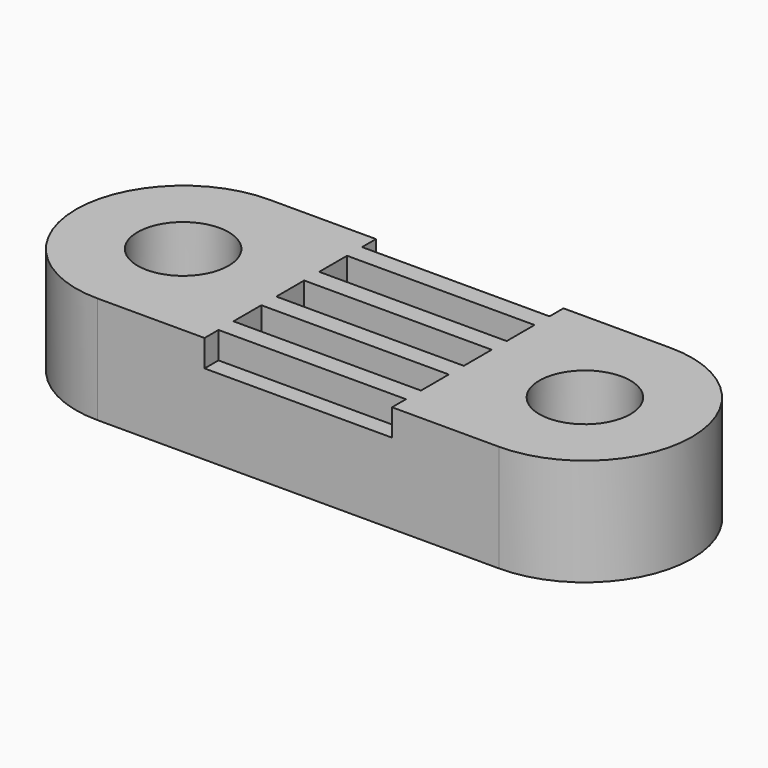
from build123d import *

# Parameters (mm, degrees)
SKETCH_R     = 1.7
PAD_DEPTH    = 4
SKETCH001_W  = 7
SKETCH001_H  = 1.3
POCKET_DEPTH = 1
CHAMFER_SIZE = 0.5


with BuildPart() as part:
    # Sketch → Pad (new body)
    with BuildSketch(Plane.XY):
        with BuildLine():
            ThreePointArc((-7.5, 4), (-11.5, 0), (-7.5, -4))
            Line((-7.5, -4), (7.5, -4))
            ThreePointArc((7.5, -4), (11.5, 0), (7.5, 4))
            Line((-7.5, 4), (7.5, 4))
        make_face()
        with Locations((-7.5, 0)):
            Circle(SKETCH_R, mode=Mode.SUBTRACT)
        with Locations((7.5, 0)):
            Circle(SKETCH_R, mode=Mode.SUBTRACT)
    extrude(amount=PAD_DEPTH)

    # Sketch001 → Pocket (cut)
    with BuildSketch(Plane.XY.offset(4)):
        with Locations((0, 2)):
            Rectangle(SKETCH001_W, SKETCH001_H)
        Rectangle(SKETCH001_W, SKETCH001_H)
        with Locations((0, -2)):
            Rectangle(SKETCH001_W, SKETCH001_H)
        with Locations((0, 4)):
            Rectangle(SKETCH001_W, SKETCH001_H)
        with Locations((0, -4)):
            Rectangle(SKETCH001_W, SKETCH001_H)
    extrude(amount=-POCKET_DEPTH, mode=Mode.SUBTRACT)

    # Chamfer
    chamfer_edges = [part.edges().sort_by_distance(p)[0] for p in [
        (-9.2, 0, 0),
        (5.8, 0, 0),
    ]]
    chamfer(chamfer_edges, length=CHAMFER_SIZE)


solid = part.part
